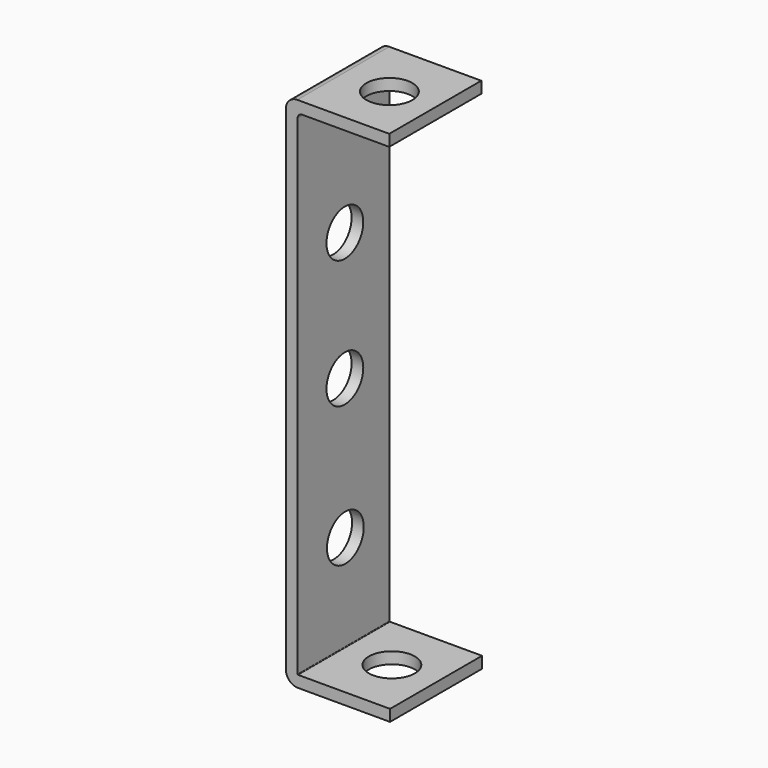
from build123d import *

# Parameters (mm, degrees)
CYLINDER030_R               = 2
CYLINDER030_DEPTH           = 10
CYLINDER030_PITCH_ANGLE     = 90
CYLINDER030_PLACEMENT_ANGLE = 7e-06
CYLINDER031_R               = 2
CYLINDER031_DEPTH           = 10
CYLINDER031_PITCH_ANGLE     = 90
CYLINDER031_PLACEMENT_ANGLE = 7e-06
CYLINDER026_R               = 2
CYLINDER026_DEPTH           = 2
CYLINDER026_ROLL_ANGLE      = -88.507054
CYLINDER026_PITCH_ANGLE     = -87.01751
CYLINDER026_PLACEMENT_ANGLE = -92.244015
CYLINDER028_R               = 2
CYLINDER028_DEPTH           = 2
CYLINDER028_PLACEMENT_ANGLE = 90.00001
CYLINDER029_R               = 2
CYLINDER029_DEPTH           = 2
CYLINDER029_ROLL_ANGLE      = 90
CYLINDER027_R               = 2
CYLINDER027_DEPTH           = 2
CYLINDER027_ROLL_ANGLE      = 90
CYLINDER025_R               = 2
CYLINDER025_DEPTH           = 2
CYLINDER025_ROLL_ANGLE      = -88.507054
CYLINDER025_PITCH_ANGLE     = -87.01751
CYLINDER025_PLACEMENT_ANGLE = -92.244015
PAD006_DEPTH                = 10
CUT029_PITCH_ANGLE          = 90
CUT029_PLACEMENT_ANGLE      = -90


with BuildPart() as cylinder030:
    # Cylinder030 → Cylinder030 (new body)
    with BuildSketch(Plane.XY):
        Circle(CYLINDER030_R)
    extrude(amount=CYLINDER030_DEPTH)


with BuildPart() as cylinder030_1:
    # Cylinder030 pitch: moved
    add(cylinder030.part.rotate(Axis((0, 0, 0), (0, 1, 0)), CYLINDER030_PITCH_ANGLE))


with BuildPart() as cylinder030_2:
    # Cylinder030 placement: moved
    add(cylinder030_1.part.moved(Location((15.49, 3.9, 4.87))).rotate(Axis((15.49, 3.9, 4.87), (0, 0, 1)), CYLINDER030_PLACEMENT_ANGLE))


with BuildPart() as cylinder031:
    # Cylinder031 → Cylinder031 (new body)
    with BuildSketch(Plane.XY):
        Circle(CYLINDER031_R)
    extrude(amount=CYLINDER031_DEPTH)


with BuildPart() as cylinder031_1:
    # Cylinder031 pitch: moved
    add(cylinder031.part.rotate(Axis((0, 0, 0), (0, 1, 0)), CYLINDER031_PITCH_ANGLE))


with BuildPart() as cylinder031_2:
    # Cylinder031 placement: moved
    add(cylinder031_1.part.moved(Location((-28.4147, 3.9, 5.14))).rotate(Axis((-28.4147, 3.9, 5.14), (0, 0, 1)), CYLINDER031_PLACEMENT_ANGLE))


with BuildPart() as cylinder026:
    # Cylinder026 → Cylinder026 (new body)
    with BuildSketch(Plane.XY):
        Circle(CYLINDER026_R)
    extrude(amount=CYLINDER026_DEPTH)


with BuildPart() as cylinder026_1:
    # Cylinder026 roll: moved
    add(cylinder026.part.rotate(Axis((0, 0, 0), (1, 0, 0)), CYLINDER026_ROLL_ANGLE))


with BuildPart() as cylinder026_2:
    # Cylinder026 pitch: moved
    add(cylinder026_1.part.rotate(Axis((0, 0, 0), (0, 1, 0)), CYLINDER026_PITCH_ANGLE))


with BuildPart() as cylinder026_3:
    # Cylinder026 placement: moved
    add(cylinder026_2.part.moved(Location((-26, 5.29, 4.9))).rotate(Axis((-26, 5.29, 4.9), (0, 0, 1)), CYLINDER026_PLACEMENT_ANGLE))


with BuildPart() as cylinder028:
    # Cylinder028 → Cylinder028 (new body)
    with BuildSketch(Plane.XY):
        Circle(CYLINDER028_R)
    extrude(amount=CYLINDER028_DEPTH)


with BuildPart() as cylinder028_1:
    # Cylinder028 placement: moved
    add(cylinder028.part.moved(Location((-11.1555, 0, 4.86401))).rotate(Axis((-11.1555, 0, 4.86401), (1, 0, 0)), CYLINDER028_PLACEMENT_ANGLE))


with BuildPart() as cylinder029:
    # Cylinder029 → Cylinder029 (new body)
    with BuildSketch(Plane.XY):
        Circle(CYLINDER029_R)
    extrude(amount=CYLINDER029_DEPTH)


with BuildPart() as cylinder029_1:
    # Cylinder029 roll: moved
    add(cylinder029.part.rotate(Axis((0, 0, 0), (1, 0, 0)), CYLINDER029_ROLL_ANGLE))


with BuildPart() as cylinder029_2:
    # Cylinder029 placement: moved
    add(cylinder029_1.part.moved(Location((0, 0, 4.86401))))


with BuildPart() as cylinder027:
    # Cylinder027 → Cylinder027 (new body)
    with BuildSketch(Plane.XY):
        Circle(CYLINDER027_R)
    extrude(amount=CYLINDER027_DEPTH)


with BuildPart() as cylinder027_1:
    # Cylinder027 roll: moved
    add(cylinder027.part.rotate(Axis((0, 0, 0), (1, 0, 0)), CYLINDER027_ROLL_ANGLE))


with BuildPart() as cylinder027_2:
    # Cylinder027 placement: moved
    add(cylinder027_1.part.moved(Location((12.2129, 0, 4.81114))))


with BuildPart() as cylinder025:
    # Cylinder025 → Cylinder025 (new body)
    with BuildSketch(Plane.XY):
        Circle(CYLINDER025_R)
    extrude(amount=CYLINDER025_DEPTH)


with BuildPart() as cylinder025_1:
    # Cylinder025 roll: moved
    add(cylinder025.part.rotate(Axis((0, 0, 0), (1, 0, 0)), CYLINDER025_ROLL_ANGLE))


with BuildPart() as cylinder025_2:
    # Cylinder025 pitch: moved
    add(cylinder025_1.part.rotate(Axis((0, 0, 0), (0, 1, 0)), CYLINDER025_PITCH_ANGLE))


with BuildPart() as cylinder025_3:
    # Cylinder025 placement: moved
    add(cylinder025_2.part.moved(Location((25, 5.38, 4.9))).rotate(Axis((25, 5.38, 4.9), (0, 0, 1)), CYLINDER025_PLACEMENT_ANGLE))


with BuildPart() as cut029:
    # Sketch007 → Pad006 (new body)
    with BuildSketch(Plane.XY):
        with BuildLine():
            Line((20.546084, -1.208272), (-22.415471, -1.208272))
            ThreePointArc((-23.400725, -0.223018), (-23.112151, -0.919698), (-22.415471, -1.208272))
            Line((-23.400725, 7.776982), (-23.400725, -0.223018))
            Line((-23.400725, 7.776982), (-22.400725, 7.776982))
            Line((-22.400725, 7.776982), (-22.400725, 0.197829))
            ThreePointArc((-22.400725, 0.197829), (-22.286166, -0.07874), (-22.009596, -0.193299))
            Line((-22.009596, -0.193299), (20.555186, -0.193299))
            ThreePointArc((20.555186, -0.193299), (20.586324, -0.180401), (20.599222, -0.149263))
            Line((20.599222, 7.844865), (20.599222, -0.149263))
            Line((21.599222, 7.844865), (20.599222, 7.844865))
            Line((21.599222, 7.844865), (21.599222, -0.155135))
            ThreePointArc((20.546084, -1.208272), (21.290765, -0.899815), (21.599222, -0.155135))
        make_face()
    extrude(amount=PAD006_DEPTH)

    # Cut005: cut Cylinder025
    add(cylinder025_3.part, mode=Mode.SUBTRACT)

    # Cut006: cut Cylinder027
    add(cylinder027_2.part, mode=Mode.SUBTRACT)

    # Cut007: cut Cylinder029
    add(cylinder029_2.part, mode=Mode.SUBTRACT)

    # Cut008: cut Cylinder028
    add(cylinder028_1.part, mode=Mode.SUBTRACT)

    # Cut009: cut Cylinder026
    add(cylinder026_3.part, mode=Mode.SUBTRACT)

    # Cut018: cut Cylinder031
    add(cylinder031_2.part, mode=Mode.SUBTRACT)

    # Cut029: cut Cylinder030
    add(cylinder030_2.part, mode=Mode.SUBTRACT)


with BuildPart() as cut029_1:
    # Cut029 pitch: moved
    add(cut029.part.rotate(Axis((0, 0, 0), (0, 1, 0)), CUT029_PITCH_ANGLE))


with BuildPart() as cut029_2:
    # Cut029 placement: moved
    add(cut029_1.part.moved(Location((-113.8, -45.5244, 76))).rotate(Axis((-113.8, -45.5244, 76), (0, 0, 1)), CUT029_PLACEMENT_ANGLE))


solid = cut029_2.part
